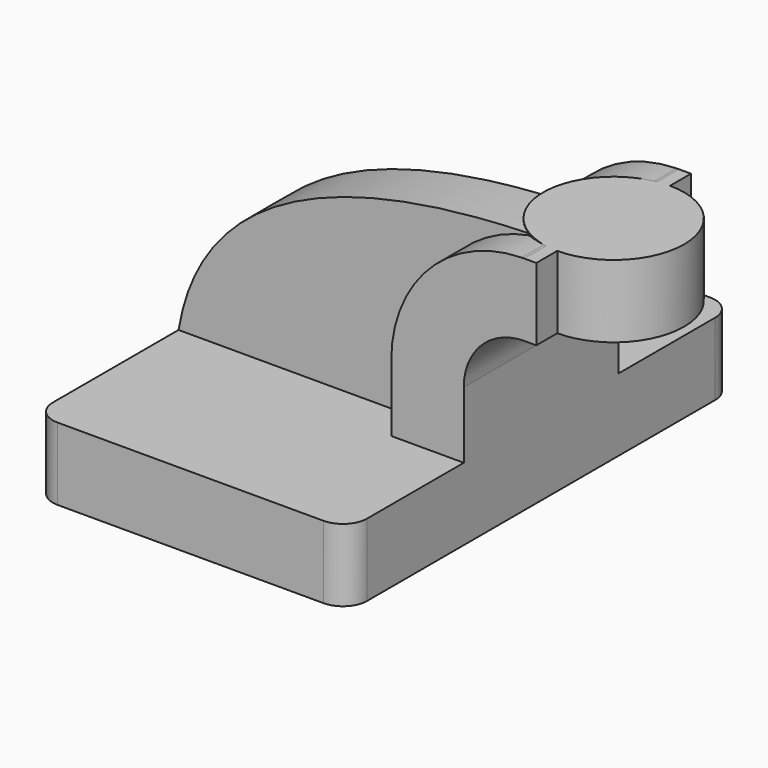
from build123d import *

# Parameters (mm, degrees)
F1_DEPTH = 63.5
F2_DEPTH = 25.4
F3_DEPTH = 15.875
F0_W     = 18.50829
F0_H     = 19.05
F5_R     = 6.35


with BuildPart() as f1:
    # F0 (on Front) → F1 (new body, symmetric)
    with BuildSketch(Plane.XZ):
        Polygon((41.275, -9.525), (41.275, 9.525), (22.225, 9.525), (-41.275, 9.525), (-41.275, -9.525), align=None)
    extrude(amount=F1_DEPTH, both=True)

    # F0 (on Front) → F2 (join, symmetric)
    with BuildSketch(Plane.XZ):
        with BuildLine():
            Line((22.225, 9.525), (41.275, 9.525))
            Line((41.275, 9.525), (41.275, 27.0002))
            ThreePointArc((41.275, 27.0002), (45.92468, 38.22552), (57.15, 42.8752))
            Line((57.15, 42.8752), (60.325, 42.8752))
            Line((60.325, 42.8752), (60.325, 61.9252))
            Line((60.325, 61.9252), (57.15, 61.9252))
            add(Edge.make_bspline(
                [(56.529617, 61.91969), (56.73609, 61.921736), (56.942884, 61.923573), (57.15, 61.9252)],
                knots=[111.11806, 111.11806, 111.11806, 111.11806, 111.504536, 111.504536, 111.504536, 111.504536], degree=3))
            ThreePointArc((56.529617, 61.91969), (32.235922, 51.475583), (22.225, 27.0002))
            Line((22.225, 27.0002), (22.225, 9.525))
        make_face()
    extrude(amount=F2_DEPTH, both=True)

    # F0 (on Front) → F3 (join)
    with BuildSketch(Plane.XZ):
        with BuildLine():
            Line((-41.275, 9.525), (22.225, 9.525))
            Line((22.225, 9.525), (22.225, 27.0002))
            ThreePointArc((22.225, 27.0002), (32.235922, 51.475583), (56.529617, 61.91969))
            add(Edge.make_bspline(
                [(-41.275, 9.525), (-35.629907, 43.413288), (-2.834722, 61.331295), (56.529617, 61.91969)],
                knots=[0, 0, 0, 0, 111.11806, 111.11806, 111.11806, 111.11806], degree=3))
        make_face()
    extrude(amount=F3_DEPTH)

    # F0 (on Front) → F4 (revolve)
    with BuildSketch(Plane.XZ):
        with Locations((69.579145, 52.4002)):
            Rectangle(F0_W, F0_H)
    revolve(axis=Axis((60.325, 0, 52.3875), (0, 0, 1)))

    # F5
    f5_edges = [f1.edges().sort_by_distance(p)[0] for p in [
        (41.275, -63.5, 0),
        (-41.275, -63.5, 0),
        (41.275, 63.5, 0),
        (-41.275, 63.5, 0),
    ]]
    fillet(f5_edges, radius=F5_R)


solid = f1.part
